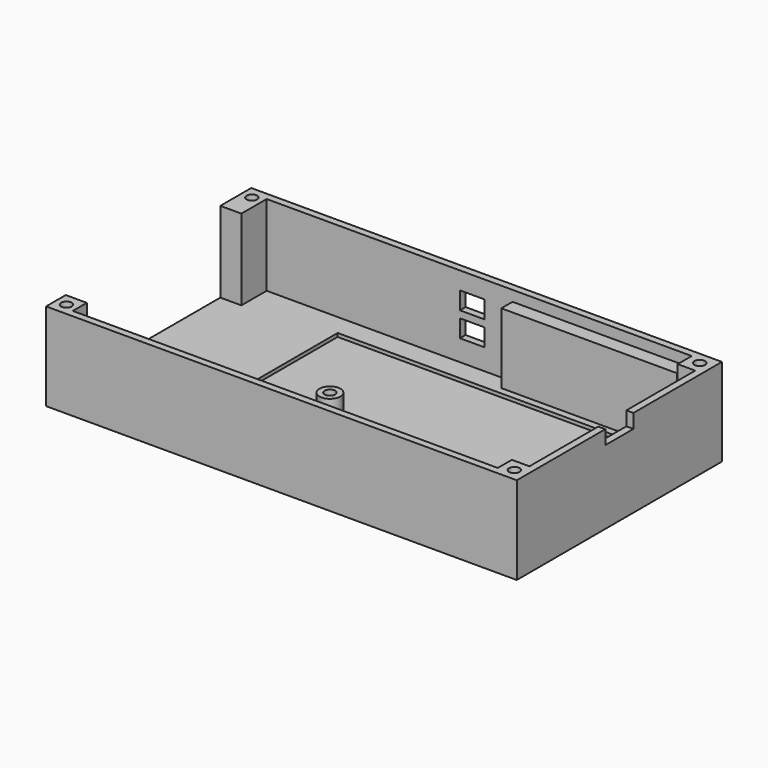
from build123d import *

# Parameters (mm, degrees)
BOX_W             = 134
BOX_H             = 73
BOX_DEPTH         = 25
BOX001_W          = 126
BOX001_H          = 69
BOX001_DEPTH      = 23
BOX002_W          = 10
BOX002_H          = 55
BOX002_DEPTH      = 23
BOX003_W          = 100
BOX003_H          = 30
BOX003_DEPTH      = 1
CYLINDER_R        = 1
CYLINDER_DEPTH    = 5
CYLINDER001_R     = 1
CYLINDER001_DEPTH = 5
CYLINDER002_R     = 3
CYLINDER002_DEPTH = 7
CYLINDER003_R     = 1.5
CYLINDER003_DEPTH = 6
CYLINDER004_R     = 3
CYLINDER004_DEPTH = 7
CYLINDER005_R     = 1.5
CYLINDER005_DEPTH = 6
BOX004_W          = 7
BOX004_H          = 5
BOX004_DEPTH      = 7
BOX005_W          = 7
BOX005_H          = 5
BOX005_DEPTH      = 5
BOX006_W          = 50
BOX006_H          = 20
BOX006_DEPTH      = 4
BOX007_W          = 4
BOX007_H          = 10
BOX007_DEPTH      = 2
CYLINDER006_R     = 1.5
CYLINDER006_DEPTH = 5
CYLINDER007_R     = 1.5
CYLINDER007_DEPTH = 5
BOX008_W          = 5
BOX008_H          = 5
BOX008_DEPTH      = 10
BOX009_W          = 5
BOX009_H          = 5
BOX009_DEPTH      = 10
CYLINDER008_R     = 1.5
CYLINDER008_DEPTH = 5
CYLINDER009_R     = 1.5
CYLINDER009_DEPTH = 5


with BuildPart() as part:
    # Box → Box (join)
    with BuildSketch(Plane.XY):
        with Locations((67, 36.5)):
            Rectangle(BOX_W, BOX_H)
    extrude(amount=BOX_DEPTH)

    # Box001 → Box001 (cut)
    with BuildSketch(Plane(origin=(6, 2, 2), x_dir=(1, 0, 0), z_dir=(0, 0, 1))):
        with Locations((63, 34.5)):
            Rectangle(BOX001_W, BOX001_H)
    extrude(amount=BOX001_DEPTH, mode=Mode.SUBTRACT)

    # Box002 → Box002 (cut)
    with BuildSketch(Plane(origin=(-2, 7, 2), x_dir=(1, 0, 0), z_dir=(0, 0, 1))):
        with Locations((5, 27.5)):
            Rectangle(BOX002_W, BOX002_H)
    extrude(amount=BOX002_DEPTH, mode=Mode.SUBTRACT)

    # Box003 → Box003 (cut)
    with BuildSketch(Plane(origin=(31, 35, 1), x_dir=(1, 0, 0), z_dir=(0, 0, 1))):
        with Locations((50, 15)):
            Rectangle(BOX003_W, BOX003_H)
    extrude(amount=BOX003_DEPTH, mode=Mode.SUBTRACT)

    # Cylinder → Cylinder (join)
    with BuildSketch(Plane(origin=(129, 37, 1), x_dir=(1, 0, 0), z_dir=(0, 0, 1))):
        Circle(CYLINDER_R)
    extrude(amount=CYLINDER_DEPTH)

    # Cylinder001 → Cylinder001 (join)
    with BuildSketch(Plane(origin=(129, 63, 1), x_dir=(1, 0, 0), z_dir=(0, 0, 1))):
        Circle(CYLINDER001_R)
    extrude(amount=CYLINDER001_DEPTH)

    # Cylinder002 → Cylinder002 (join)
    with BuildSketch(Plane(origin=(114, 31, 1), x_dir=(1, 0, 0), z_dir=(0, 0, 1))):
        Circle(CYLINDER002_R)
    extrude(amount=CYLINDER002_DEPTH)

    # Cylinder003 → Cylinder003 (cut)
    with BuildSketch(Plane(origin=(114, 31, 3), x_dir=(1, 0, 0), z_dir=(0, 0, 1))):
        Circle(CYLINDER003_R)
    extrude(amount=CYLINDER003_DEPTH, mode=Mode.SUBTRACT)

    # Cylinder004 → Cylinder004 (join)
    with BuildSketch(Plane(origin=(56, 31, 2), x_dir=(1, 0, 0), z_dir=(0, 0, 1))):
        Circle(CYLINDER004_R)
    extrude(amount=CYLINDER004_DEPTH)

    # Cylinder005 → Cylinder005 (cut)
    with BuildSketch(Plane(origin=(56, 31, 3), x_dir=(1, 0, 0), z_dir=(0, 0, 1))):
        Circle(CYLINDER005_R)
    extrude(amount=CYLINDER005_DEPTH, mode=Mode.SUBTRACT)

    # Box004 → Box004 (cut)
    with BuildSketch(Plane(origin=(61, 74, 8), x_dir=(1, 0, 0), z_dir=(0, -1, 0))):
        with Locations((3.5, 2.5)):
            Rectangle(BOX004_W, BOX004_H)
    extrude(amount=BOX004_DEPTH, mode=Mode.SUBTRACT)

    # Box005 → Box005 (cut)
    with BuildSketch(Plane(origin=(61, 74, 15), x_dir=(1, 0, 0), z_dir=(0, -1, 0))):
        with Locations((3.5, 2.5)):
            Rectangle(BOX005_W, BOX005_H)
    extrude(amount=BOX005_DEPTH, mode=Mode.SUBTRACT)

    # Box006 → Box006 (join)
    with BuildSketch(Plane(origin=(76, 71, 2), x_dir=(1, 0, 0), z_dir=(0, -1, 0))):
        with Locations((25, 10)):
            Rectangle(BOX006_W, BOX006_H)
    extrude(amount=BOX006_DEPTH)

    # Box007 → Box007 (cut)
    with BuildSketch(Plane(origin=(134, 41.5, 25), x_dir=(0, 0, -1), z_dir=(-1, 0, 0))):
        with Locations((2, 5)):
            Rectangle(BOX007_W, BOX007_H)
    extrude(amount=BOX007_DEPTH, mode=Mode.SUBTRACT)

    # Cylinder006 → Cylinder006 (cut)
    with BuildSketch(Plane(origin=(3, 3.5, 20), x_dir=(0, 1, 0), z_dir=(0, 0, 1))):
        Circle(CYLINDER006_R)
    extrude(amount=CYLINDER006_DEPTH, mode=Mode.SUBTRACT)

    # Cylinder007 → Cylinder007 (cut)
    with BuildSketch(Plane(origin=(3, 69.5, 20), x_dir=(0, 1, 0), z_dir=(0, 0, 1))):
        Circle(CYLINDER007_R)
    extrude(amount=CYLINDER007_DEPTH, mode=Mode.SUBTRACT)

    # Box008 → Box008 (join)
    with BuildSketch(Plane(origin=(132, 2, 15), x_dir=(0, 1, 0), z_dir=(0, 0, 1))):
        with Locations((2.5, 2.5)):
            Rectangle(BOX008_W, BOX008_H)
    extrude(amount=BOX008_DEPTH)

    # Box009 → Box009 (join)
    with BuildSketch(Plane(origin=(132, 66, 15), x_dir=(0, 1, 0), z_dir=(0, 0, 1))):
        with Locations((2.5, 2.5)):
            Rectangle(BOX009_W, BOX009_H)
    extrude(amount=BOX009_DEPTH)

    # Cylinder008 → Cylinder008 (cut)
    with BuildSketch(Plane(origin=(130.5, 69.5, 20), x_dir=(0, 1, 0), z_dir=(0, 0, 1))):
        Circle(CYLINDER008_R)
    extrude(amount=CYLINDER008_DEPTH, mode=Mode.SUBTRACT)

    # Cylinder009 → Cylinder009 (cut)
    with BuildSketch(Plane(origin=(130.5, 3.5, 20), x_dir=(0, 1, 0), z_dir=(0, 0, 1))):
        Circle(CYLINDER009_R)
    extrude(amount=CYLINDER009_DEPTH, mode=Mode.SUBTRACT)


solid = part.part
